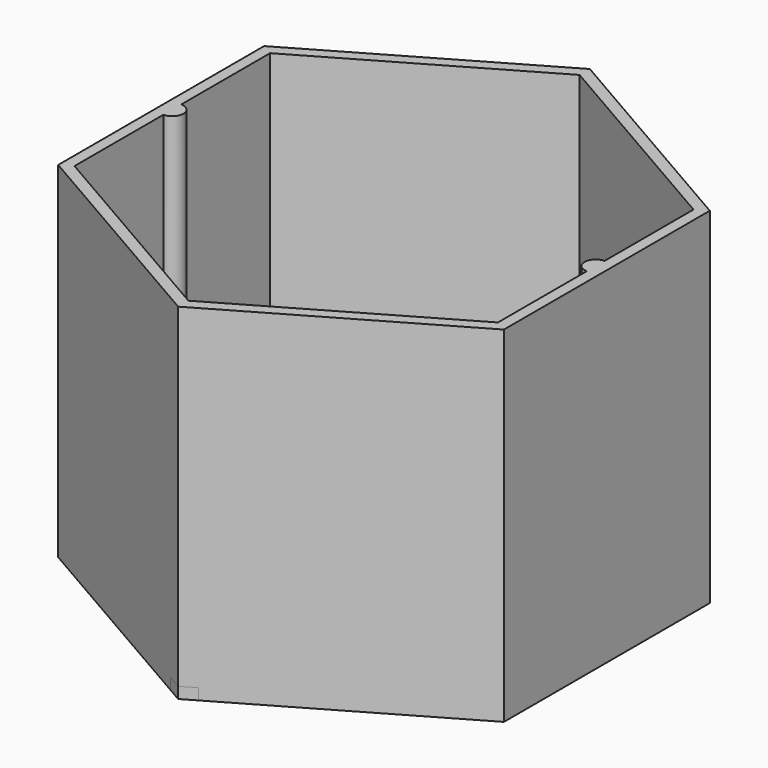
from build123d import *

# Parameters (mm, degrees)
F0_R     = 1.5
F0_W     = 10
F0_H     = 5
F0_W_2   = 17.5
F0_W_3   = 5
F1_DEPTH = 2
F3_DEPTH = 60


with BuildPart() as f1:
    # F0 (on Top) → F1 (new body)
    with BuildSketch(Plane.XY):
        Polygon((0, -46.1880215352), (2.5, -44.7446458622), (-2.5, -44.7446458622), align=None)
        Polygon((-2.5, 44.7446458622), (2.5, 44.7446458622), (0, 46.1880215352), align=None)
        Polygon((-2.5, -44.7446458622), (2.5, -44.7446458622), (2.5, -42.4352447854), (0, -43.8786204584), (-2.5, -42.4352447854), align=None)
        Polygon((2.5, 42.4352447854), (2.5, 44.7446458622), (-2.5, 44.7446458622), (-2.5, 42.4352447854), (0, 43.8786204584), align=None)
        Polygon((40, -23.0940107676), (40, 23.0940107676), (2.5, 44.7446458622), (2.5, 42.4352447854), (38, 21.9393102292), (38, 2.5), (38, 2), (38, -2), (38, -2.5), (38, -21.9393102292), (2.5, -42.4352447854), (2.5, -44.7446458622), align=None)
        Polygon((-2.5, 42.4352447854), (-2.5, 44.7446458622), (-40, 23.0940107676), (-40, -23.0940107676), (-2.5, -44.7446458622), (-2.5, -42.4352447854), (-38, -21.9393102292), (-38, -2.5), (-38, -2), (-38, 2), (-38, 2.5), (-38, 21.9393102292), align=None)
        Polygon((-2.5, 21.6506350946), (-2.5, 33.1976404784), (-30, 17.3205080757), (-30, 2.5), (-20, 2.5), (-20, 11.5470053838), align=None)
        with Locations((-25, 14.4337567297)):
            Circle(F0_R, mode=Mode.SUBTRACT)
        Polygon((30, 17.3205080757), (2.5, 33.1976404784), (2.5, 21.6506350946), (20, 11.5470053838), (20, 2.5), (30, 2.5), align=None)
        with Locations((25, 14.4337567297)):
            Circle(F0_R, mode=Mode.SUBTRACT)
        Polygon((2.5, 21.6506350946), (2.5, 33.1976404784), (0, 34.6410161514), (-2.5, 33.1976404784), (-2.5, 21.6506350946), (0, 23.0940107676), align=None)
        Polygon((2.5, 33.1976404784), (2.5, 42.4352447854), (0, 43.8786204584), (-2.5, 42.4352447854), (-2.5, 33.1976404784), (0, 34.6410161514), align=None)
        Polygon((-30, -17.3205080757), (-2.5, -33.1976404784), (-2.5, -21.6506350946), (-20, -11.5470053838), (-20, -2.5), (-30, -2.5), align=None)
        with Locations((-25, -14.4337567297)):
            Circle(F0_R, mode=Mode.SUBTRACT)
        Polygon((0, -34.6410161514), (2.5, -33.1976404784), (2.5, -21.6506350946), (0, -23.0940107676), (-2.5, -21.6506350946), (-2.5, -33.1976404784), align=None)
        Polygon((2.5, -21.6506350946), (2.5, -33.1976404784), (30, -17.3205080757), (30, -2.5), (20, -2.5), (20, -11.5470053838), align=None)
        with Locations((25, -14.4337567297)):
            Circle(F0_R, mode=Mode.SUBTRACT)
        with Locations((25, 0)):
            Rectangle(F0_W, F0_H)
        with BuildLine():
            Line((38, 2), (38, 2.5))
            Line((38, 2.5), (30, 2.5))
            Line((30, 2.5), (30, -2.5))
            Line((30, -2.5), (38, -2.5))
            Line((38, -2.5), (38, -2))
            ThreePointArc((38, -2), (36, 0), (38, 2))
        make_face()
        with Locations((11.25, 0)):
            Rectangle(F0_W_2, F0_H)
        Polygon((2.5, 2.5), (2.5, 21.6506350946), (0, 23.0940107676), (-2.5, 21.6506350946), (-2.5, 2.5), align=None)
        with Locations((-11.25, 0)):
            Rectangle(F0_W_2, F0_H)
        with Locations((-25, 0)):
            Rectangle(F0_W, F0_H)
        with BuildLine():
            Line((-30, 2.5), (-38, 2.5))
            Line((-38, 2.5), (-38, 2))
            ThreePointArc((-38, 2), (-36, 0), (-38, -2))
            Line((-38, -2), (-38, -2.5))
            Line((-38, -2.5), (-30, -2.5))
            Line((-30, -2.5), (-30, 2.5))
        make_face()
        Polygon((0, -23.0940107676), (2.5, -21.6506350946), (2.5, -2.5), (-2.5, -2.5), (-2.5, -21.6506350946), align=None)
        Rectangle(F0_W_3, F0_H)
        Polygon((0, -43.8786204584), (2.5, -42.4352447854), (2.5, -33.1976404784), (0, -34.6410161514), (-2.5, -33.1976404784), (-2.5, -42.4352447854), align=None)
        with BuildLine():
            ThreePointArc((-38, -2), (-36, 0), (-38, 2))
            Line((-38, 2), (-38, -2))
        make_face()
        with BuildLine():
            Line((38, -2), (38, 2))
            ThreePointArc((38, 2), (36, 0), (38, -2))
        make_face()
    extrude(amount=F1_DEPTH)

    # F2 (on face) → F3 (join)
    with BuildSketch(Plane.XY.offset(2)):
        Polygon((-40, 23.0940107676), (-40, -23.0940107676), (0, -46.1880215352), (40, -23.0940107676), (40, 23.0940107676), (0, 46.1880215352), align=None)
        Polygon((0, -43.8786204584), (-38, -21.9393102292), (-38, -2), (-38, 2), (-38, 21.9393102292), (0, 43.8786204584), (38, 21.9393102292), (38, 2), (38, -2), (38, -21.9393102292), align=None, mode=Mode.SUBTRACT)
        with BuildLine():
            Line((-38, 2), (-38, -2))
            ThreePointArc((-38, -2), (-36, 0), (-38, 2))
        make_face()
        with BuildLine():
            ThreePointArc((38, 2), (36, 0), (38, -2))
            Line((38, -2), (38, 2))
        make_face()
    extrude(amount=F3_DEPTH)


solid = f1.part
